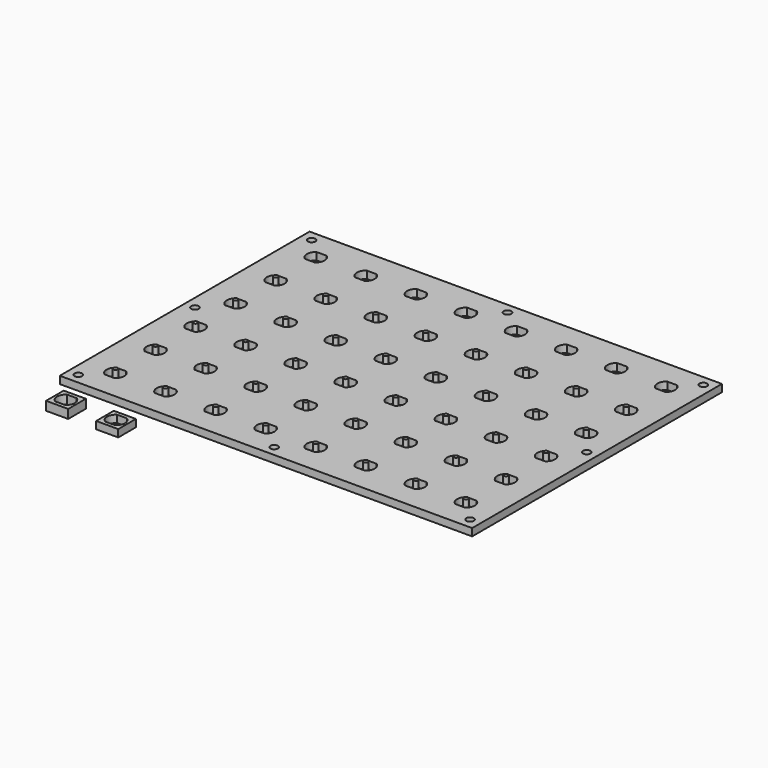
from build123d import *

# Parameters (mm, degrees)
F0_W          = 280
F0_H          = 212
F1_DEPTH      = 5
F2_W          = 13
F2_H          = 5
F2_R          = 1.5
F3_DEPTH      = 5
F4_DEPTH      = 7.5
F4_DEPTH_BACK = 3.5
F5_R          = 2.55
F6_DEPTH      = 5
F0_W_2        = 15
F0_H_2        = 15
F7_DEPTH      = 6
F8_DEPTH      = 5


with BuildPart() as f1:
    # F0 (on Top) → F1 (new body)
    with BuildSketch(Plane.XY):
        Rectangle(F0_W, F0_H)
        with BuildLine():
            ThreePointArc((-122.3166247904, -90), (-125, -85), (-122.3166247904, -80))
            Line((-122.3166247904, -80), (-115.6833752096, -80))
            ThreePointArc((-115.6833752096, -80), (-113, -85), (-115.6833752096, -90))
            Line((-115.6833752096, -90), (-122.3166247904, -90))
        make_face(mode=Mode.SUBTRACT)
        with BuildLine():
            ThreePointArc((-88.3166247904, -90), (-91, -85), (-88.3166247904, -80))
            Line((-88.3166247904, -80), (-81.6833752096, -80))
            ThreePointArc((-81.6833752096, -80), (-79, -85), (-81.6833752096, -90))
            Line((-81.6833752096, -90), (-88.3166247904, -90))
        make_face(mode=Mode.SUBTRACT)
        with BuildLine():
            ThreePointArc((-54.3166247904, -90), (-57, -85), (-54.3166247904, -80))
            Line((-54.3166247904, -80), (-47.6833752096, -80))
            ThreePointArc((-47.6833752096, -80), (-45, -85), (-47.6833752096, -90))
            Line((-47.6833752096, -90), (-54.3166247904, -90))
        make_face(mode=Mode.SUBTRACT)
        with BuildLine():
            ThreePointArc((-20.3166247904, -90), (-23, -85), (-20.3166247904, -80))
            Line((-20.3166247904, -80), (-13.6833752096, -80))
            ThreePointArc((-13.6833752096, -80), (-11, -85), (-13.6833752096, -90))
            Line((-13.6833752096, -90), (-20.3166247904, -90))
        make_face(mode=Mode.SUBTRACT)
        with BuildLine():
            ThreePointArc((-122.3166247904, -56), (-125, -51), (-122.3166247904, -46))
            Line((-122.3166247904, -46), (-115.6833752096, -46))
            ThreePointArc((-115.6833752096, -46), (-113, -51), (-115.6833752096, -56))
            Line((-115.6833752096, -56), (-122.3166247904, -56))
        make_face(mode=Mode.SUBTRACT)
        with BuildLine():
            ThreePointArc((-88.3166247904, -56), (-91, -51), (-88.3166247904, -46))
            Line((-88.3166247904, -46), (-81.6833752096, -46))
            ThreePointArc((-81.6833752096, -46), (-79, -51), (-81.6833752096, -56))
            Line((-81.6833752096, -56), (-88.3166247904, -56))
        make_face(mode=Mode.SUBTRACT)
        with BuildLine():
            ThreePointArc((-122.3166247904, -22), (-125, -17), (-122.3166247904, -12))
            Line((-122.3166247904, -12), (-115.6833752096, -12))
            ThreePointArc((-115.6833752096, -12), (-113, -17), (-115.6833752096, -22))
            Line((-115.6833752096, -22), (-122.3166247904, -22))
        make_face(mode=Mode.SUBTRACT)
        with BuildLine():
            ThreePointArc((-88.3166247904, -22), (-91, -17), (-88.3166247904, -12))
            Line((-88.3166247904, -12), (-81.6833752096, -12))
            ThreePointArc((-81.6833752096, -12), (-79, -17), (-81.6833752096, -22))
            Line((-81.6833752096, -22), (-88.3166247904, -22))
        make_face(mode=Mode.SUBTRACT)
        with BuildLine():
            ThreePointArc((-54.3166247904, -56), (-57, -51), (-54.3166247904, -46))
            Line((-54.3166247904, -46), (-47.6833752096, -46))
            ThreePointArc((-47.6833752096, -46), (-45, -51), (-47.6833752096, -56))
            Line((-47.6833752096, -56), (-54.3166247904, -56))
        make_face(mode=Mode.SUBTRACT)
        with BuildLine():
            ThreePointArc((-20.3166247904, -56), (-23, -51), (-20.3166247904, -46))
            Line((-20.3166247904, -46), (-13.6833752096, -46))
            ThreePointArc((-13.6833752096, -46), (-11, -51), (-13.6833752096, -56))
            Line((-13.6833752096, -56), (-20.3166247904, -56))
        make_face(mode=Mode.SUBTRACT)
        with BuildLine():
            ThreePointArc((-54.3166247904, -22), (-57, -17), (-54.3166247904, -12))
            Line((-54.3166247904, -12), (-47.6833752096, -12))
            ThreePointArc((-47.6833752096, -12), (-45, -17), (-47.6833752096, -22))
            Line((-47.6833752096, -22), (-54.3166247904, -22))
        make_face(mode=Mode.SUBTRACT)
        with BuildLine():
            ThreePointArc((-20.3166247904, -22), (-23, -17), (-20.3166247904, -12))
            Line((-20.3166247904, -12), (-13.6833752096, -12))
            ThreePointArc((-13.6833752096, -12), (-11, -17), (-13.6833752096, -22))
            Line((-13.6833752096, -22), (-20.3166247904, -22))
        make_face(mode=Mode.SUBTRACT)
        with BuildLine():
            ThreePointArc((13.6833752096, -90), (11, -85), (13.6833752096, -80))
            Line((13.6833752096, -80), (20.3166247904, -80))
            ThreePointArc((20.3166247904, -80), (23, -85), (20.3166247904, -90))
            Line((20.3166247904, -90), (13.6833752096, -90))
        make_face(mode=Mode.SUBTRACT)
        with BuildLine():
            ThreePointArc((47.6833752096, -90), (45, -85), (47.6833752096, -80))
            Line((47.6833752096, -80), (54.3166247904, -80))
            ThreePointArc((54.3166247904, -80), (57, -85), (54.3166247904, -90))
            Line((54.3166247904, -90), (47.6833752096, -90))
        make_face(mode=Mode.SUBTRACT)
        with BuildLine():
            ThreePointArc((81.6833752096, -90), (79, -85), (81.6833752096, -80))
            Line((81.6833752096, -80), (88.3166247904, -80))
            ThreePointArc((88.3166247904, -80), (91, -85), (88.3166247904, -90))
            Line((88.3166247904, -90), (81.6833752096, -90))
        make_face(mode=Mode.SUBTRACT)
        with BuildLine():
            ThreePointArc((115.6833752096, -90), (113, -85), (115.6833752096, -80))
            Line((115.6833752096, -80), (122.3166247904, -80))
            ThreePointArc((122.3166247904, -80), (125, -85), (122.3166247904, -90))
            Line((122.3166247904, -90), (115.6833752096, -90))
        make_face(mode=Mode.SUBTRACT)
        with BuildLine():
            ThreePointArc((13.6833752096, -56), (11, -51), (13.6833752096, -46))
            Line((13.6833752096, -46), (20.3166247904, -46))
            ThreePointArc((20.3166247904, -46), (23, -51), (20.3166247904, -56))
            Line((20.3166247904, -56), (13.6833752096, -56))
        make_face(mode=Mode.SUBTRACT)
        with BuildLine():
            ThreePointArc((47.6833752096, -56), (45, -51), (47.6833752096, -46))
            Line((47.6833752096, -46), (54.3166247904, -46))
            ThreePointArc((54.3166247904, -46), (57, -51), (54.3166247904, -56))
            Line((54.3166247904, -56), (47.6833752096, -56))
        make_face(mode=Mode.SUBTRACT)
        with BuildLine():
            ThreePointArc((13.6833752096, -22), (11, -17), (13.6833752096, -12))
            Line((13.6833752096, -12), (20.3166247904, -12))
            ThreePointArc((20.3166247904, -12), (23, -17), (20.3166247904, -22))
            Line((20.3166247904, -22), (13.6833752096, -22))
        make_face(mode=Mode.SUBTRACT)
        with BuildLine():
            ThreePointArc((47.6833752096, -22), (45, -17), (47.6833752096, -12))
            Line((47.6833752096, -12), (54.3166247904, -12))
            ThreePointArc((54.3166247904, -12), (57, -17), (54.3166247904, -22))
            Line((54.3166247904, -22), (47.6833752096, -22))
        make_face(mode=Mode.SUBTRACT)
        with BuildLine():
            ThreePointArc((81.6833752096, -56), (79, -51), (81.6833752096, -46))
            Line((81.6833752096, -46), (88.3166247904, -46))
            ThreePointArc((88.3166247904, -46), (91, -51), (88.3166247904, -56))
            Line((88.3166247904, -56), (81.6833752096, -56))
        make_face(mode=Mode.SUBTRACT)
        with BuildLine():
            ThreePointArc((115.6833752096, -56), (113, -51), (115.6833752096, -46))
            Line((115.6833752096, -46), (122.3166247904, -46))
            ThreePointArc((122.3166247904, -46), (125, -51), (122.3166247904, -56))
            Line((122.3166247904, -56), (115.6833752096, -56))
        make_face(mode=Mode.SUBTRACT)
        with BuildLine():
            ThreePointArc((81.6833752096, -22), (79, -17), (81.6833752096, -12))
            Line((81.6833752096, -12), (88.3166247904, -12))
            ThreePointArc((88.3166247904, -12), (91, -17), (88.3166247904, -22))
            Line((88.3166247904, -22), (81.6833752096, -22))
        make_face(mode=Mode.SUBTRACT)
        with BuildLine():
            ThreePointArc((115.6833752096, -22), (113, -17), (115.6833752096, -12))
            Line((115.6833752096, -12), (122.3166247904, -12))
            ThreePointArc((122.3166247904, -12), (125, -17), (122.3166247904, -22))
            Line((122.3166247904, -22), (115.6833752096, -22))
        make_face(mode=Mode.SUBTRACT)
        with BuildLine():
            ThreePointArc((-122.3166247904, 12), (-125, 17), (-122.3166247904, 22))
            Line((-122.3166247904, 22), (-115.6833752096, 22))
            ThreePointArc((-115.6833752096, 22), (-113, 17), (-115.6833752096, 12))
            Line((-115.6833752096, 12), (-122.3166247904, 12))
        make_face(mode=Mode.SUBTRACT)
        with BuildLine():
            ThreePointArc((-88.3166247904, 12), (-91, 17), (-88.3166247904, 22))
            Line((-88.3166247904, 22), (-81.6833752096, 22))
            ThreePointArc((-81.6833752096, 22), (-79, 17), (-81.6833752096, 12))
            Line((-81.6833752096, 12), (-88.3166247904, 12))
        make_face(mode=Mode.SUBTRACT)
        with BuildLine():
            ThreePointArc((-54.3166247904, 12), (-57, 17), (-54.3166247904, 22))
            Line((-54.3166247904, 22), (-47.6833752096, 22))
            ThreePointArc((-47.6833752096, 22), (-45, 17), (-47.6833752096, 12))
            Line((-47.6833752096, 12), (-54.3166247904, 12))
        make_face(mode=Mode.SUBTRACT)
        with BuildLine():
            ThreePointArc((-20.3166247904, 12), (-23, 17), (-20.3166247904, 22))
            Line((-20.3166247904, 22), (-13.6833752096, 22))
            ThreePointArc((-13.6833752096, 22), (-11, 17), (-13.6833752096, 12))
            Line((-13.6833752096, 12), (-20.3166247904, 12))
        make_face(mode=Mode.SUBTRACT)
        with BuildLine():
            ThreePointArc((-122.3166247904, 46), (-125, 51), (-122.3166247904, 56))
            Line((-122.3166247904, 56), (-115.6833752096, 56))
            ThreePointArc((-115.6833752096, 56), (-113, 51), (-115.6833752096, 46))
            Line((-115.6833752096, 46), (-122.3166247904, 46))
        make_face(mode=Mode.SUBTRACT)
        with BuildLine():
            ThreePointArc((-88.3166247904, 46), (-91, 51), (-88.3166247904, 56))
            Line((-88.3166247904, 56), (-81.6833752096, 56))
            ThreePointArc((-81.6833752096, 56), (-79, 51), (-81.6833752096, 46))
            Line((-81.6833752096, 46), (-88.3166247904, 46))
        make_face(mode=Mode.SUBTRACT)
        with BuildLine():
            ThreePointArc((-122.3166247904, 80), (-125, 85), (-122.3166247904, 90))
            Line((-122.3166247904, 90), (-115.6833752096, 90))
            ThreePointArc((-115.6833752096, 90), (-113, 85), (-115.6833752096, 80))
            Line((-115.6833752096, 80), (-122.3166247904, 80))
        make_face(mode=Mode.SUBTRACT)
        with BuildLine():
            ThreePointArc((-88.3166247904, 80), (-91, 85), (-88.3166247904, 90))
            Line((-88.3166247904, 90), (-81.6833752096, 90))
            ThreePointArc((-81.6833752096, 90), (-79, 85), (-81.6833752096, 80))
            Line((-81.6833752096, 80), (-88.3166247904, 80))
        make_face(mode=Mode.SUBTRACT)
        with BuildLine():
            ThreePointArc((-54.3166247904, 46), (-57, 51), (-54.3166247904, 56))
            Line((-54.3166247904, 56), (-47.6833752096, 56))
            ThreePointArc((-47.6833752096, 56), (-45, 51), (-47.6833752096, 46))
            Line((-47.6833752096, 46), (-54.3166247904, 46))
        make_face(mode=Mode.SUBTRACT)
        with BuildLine():
            ThreePointArc((-20.3166247904, 46), (-23, 51), (-20.3166247904, 56))
            Line((-20.3166247904, 56), (-13.6833752096, 56))
            ThreePointArc((-13.6833752096, 56), (-11, 51), (-13.6833752096, 46))
            Line((-13.6833752096, 46), (-20.3166247904, 46))
        make_face(mode=Mode.SUBTRACT)
        with BuildLine():
            ThreePointArc((-54.3166247904, 80), (-57, 85), (-54.3166247904, 90))
            Line((-54.3166247904, 90), (-47.6833752096, 90))
            ThreePointArc((-47.6833752096, 90), (-45, 85), (-47.6833752096, 80))
            Line((-47.6833752096, 80), (-54.3166247904, 80))
        make_face(mode=Mode.SUBTRACT)
        with BuildLine():
            ThreePointArc((-20.3166247904, 80), (-23, 85), (-20.3166247904, 90))
            Line((-20.3166247904, 90), (-13.6833752096, 90))
            ThreePointArc((-13.6833752096, 90), (-11, 85), (-13.6833752096, 80))
            Line((-13.6833752096, 80), (-20.3166247904, 80))
        make_face(mode=Mode.SUBTRACT)
        with BuildLine():
            ThreePointArc((13.6833752096, 12), (11, 17), (13.6833752096, 22))
            Line((13.6833752096, 22), (20.3166247904, 22))
            ThreePointArc((20.3166247904, 22), (23, 17), (20.3166247904, 12))
            Line((20.3166247904, 12), (13.6833752096, 12))
        make_face(mode=Mode.SUBTRACT)
        with BuildLine():
            ThreePointArc((47.6833752096, 12), (45, 17), (47.6833752096, 22))
            Line((47.6833752096, 22), (54.3166247904, 22))
            ThreePointArc((54.3166247904, 22), (57, 17), (54.3166247904, 12))
            Line((54.3166247904, 12), (47.6833752096, 12))
        make_face(mode=Mode.SUBTRACT)
        with BuildLine():
            ThreePointArc((81.6833752096, 12), (79, 17), (81.6833752096, 22))
            Line((81.6833752096, 22), (88.3166247904, 22))
            ThreePointArc((88.3166247904, 22), (91, 17), (88.3166247904, 12))
            Line((88.3166247904, 12), (81.6833752096, 12))
        make_face(mode=Mode.SUBTRACT)
        with BuildLine():
            ThreePointArc((115.6833752096, 12), (113, 17), (115.6833752096, 22))
            Line((115.6833752096, 22), (122.3166247904, 22))
            ThreePointArc((122.3166247904, 22), (125, 17), (122.3166247904, 12))
            Line((122.3166247904, 12), (115.6833752096, 12))
        make_face(mode=Mode.SUBTRACT)
        with BuildLine():
            ThreePointArc((13.6833752096, 46), (11, 51), (13.6833752096, 56))
            Line((13.6833752096, 56), (20.3166247904, 56))
            ThreePointArc((20.3166247904, 56), (23, 51), (20.3166247904, 46))
            Line((20.3166247904, 46), (13.6833752096, 46))
        make_face(mode=Mode.SUBTRACT)
        with BuildLine():
            ThreePointArc((47.6833752096, 46), (45, 51), (47.6833752096, 56))
            Line((47.6833752096, 56), (54.3166247904, 56))
            ThreePointArc((54.3166247904, 56), (57, 51), (54.3166247904, 46))
            Line((54.3166247904, 46), (47.6833752096, 46))
        make_face(mode=Mode.SUBTRACT)
        with BuildLine():
            ThreePointArc((13.6833752096, 80), (11, 85), (13.6833752096, 90))
            Line((13.6833752096, 90), (20.3166247904, 90))
            ThreePointArc((20.3166247904, 90), (23, 85), (20.3166247904, 80))
            Line((20.3166247904, 80), (13.6833752096, 80))
        make_face(mode=Mode.SUBTRACT)
        with BuildLine():
            ThreePointArc((47.6833752096, 80), (45, 85), (47.6833752096, 90))
            Line((47.6833752096, 90), (54.3166247904, 90))
            ThreePointArc((54.3166247904, 90), (57, 85), (54.3166247904, 80))
            Line((54.3166247904, 80), (47.6833752096, 80))
        make_face(mode=Mode.SUBTRACT)
        with BuildLine():
            ThreePointArc((81.6833752096, 46), (79, 51), (81.6833752096, 56))
            Line((81.6833752096, 56), (88.3166247904, 56))
            ThreePointArc((88.3166247904, 56), (91, 51), (88.3166247904, 46))
            Line((88.3166247904, 46), (81.6833752096, 46))
        make_face(mode=Mode.SUBTRACT)
        with BuildLine():
            ThreePointArc((115.6833752096, 46), (113, 51), (115.6833752096, 56))
            Line((115.6833752096, 56), (122.3166247904, 56))
            ThreePointArc((122.3166247904, 56), (125, 51), (122.3166247904, 46))
            Line((122.3166247904, 46), (115.6833752096, 46))
        make_face(mode=Mode.SUBTRACT)
        with BuildLine():
            ThreePointArc((81.6833752096, 80), (79, 85), (81.6833752096, 90))
            Line((81.6833752096, 90), (88.3166247904, 90))
            ThreePointArc((88.3166247904, 90), (91, 85), (88.3166247904, 80))
            Line((88.3166247904, 80), (81.6833752096, 80))
        make_face(mode=Mode.SUBTRACT)
        with BuildLine():
            ThreePointArc((115.6833752096, 80), (113, 85), (115.6833752096, 90))
            Line((115.6833752096, 90), (122.3166247904, 90))
            ThreePointArc((122.3166247904, 90), (125, 85), (122.3166247904, 80))
            Line((122.3166247904, 80), (115.6833752096, 80))
        make_face(mode=Mode.SUBTRACT)
    extrude(amount=F1_DEPTH)

    # F2 (on face) → F3 (join)
    with BuildSketch(Plane(origin=(0, 0, 0), x_dir=(1, 0, 0), z_dir=(0, 0, -1))):
        with Locations((-119, 85)):
            Rectangle(F2_W, F2_H)
        with Locations((-119, 85)):
            Circle(F2_R, mode=Mode.SUBTRACT)
        with Locations((-119, 51)):
            Rectangle(F2_W, F2_H)
        with Locations((-119, 51)):
            Circle(F2_R, mode=Mode.SUBTRACT)
        with Locations((-119, 17)):
            Rectangle(F2_W, F2_H)
        with Locations((-119, 17)):
            Circle(F2_R, mode=Mode.SUBTRACT)
        with Locations((-119, -17)):
            Rectangle(F2_W, F2_H)
        with Locations((-119, -17)):
            Circle(F2_R, mode=Mode.SUBTRACT)
        with Locations((-119, -51)):
            Rectangle(F2_W, F2_H)
        with Locations((-119, -51)):
            Circle(F2_R, mode=Mode.SUBTRACT)
        with Locations((-85, 85)):
            Rectangle(F2_W, F2_H)
        with Locations((-85, 85)):
            Circle(F2_R, mode=Mode.SUBTRACT)
        with Locations((-85, 51)):
            Rectangle(F2_W, F2_H)
        with Locations((-85, 51)):
            Circle(F2_R, mode=Mode.SUBTRACT)
        with Locations((-85, 17)):
            Rectangle(F2_W, F2_H)
        with Locations((-85, 17)):
            Circle(F2_R, mode=Mode.SUBTRACT)
        with Locations((-85, -17)):
            Rectangle(F2_W, F2_H)
        with Locations((-85, -17)):
            Circle(F2_R, mode=Mode.SUBTRACT)
        with Locations((-85, -51)):
            Rectangle(F2_W, F2_H)
        with Locations((-85, -51)):
            Circle(F2_R, mode=Mode.SUBTRACT)
        with Locations((-51, 85)):
            Rectangle(F2_W, F2_H)
        with Locations((-51, 85)):
            Circle(F2_R, mode=Mode.SUBTRACT)
        with Locations((-51, 51)):
            Rectangle(F2_W, F2_H)
        with Locations((-51, 51)):
            Circle(F2_R, mode=Mode.SUBTRACT)
        with Locations((-51, 17)):
            Rectangle(F2_W, F2_H)
        with Locations((-51, 17)):
            Circle(F2_R, mode=Mode.SUBTRACT)
        with Locations((-51, -17)):
            Rectangle(F2_W, F2_H)
        with Locations((-51, -17)):
            Circle(F2_R, mode=Mode.SUBTRACT)
        with Locations((-51, -51)):
            Rectangle(F2_W, F2_H)
        with Locations((-51, -51)):
            Circle(F2_R, mode=Mode.SUBTRACT)
        with Locations((-17, 85)):
            Rectangle(F2_W, F2_H)
        with Locations((-17, 85)):
            Circle(F2_R, mode=Mode.SUBTRACT)
        with Locations((-17, 51)):
            Rectangle(F2_W, F2_H)
        with Locations((-17, 51)):
            Circle(F2_R, mode=Mode.SUBTRACT)
        with Locations((-17, 17)):
            Rectangle(F2_W, F2_H)
        with Locations((-17, 17)):
            Circle(F2_R, mode=Mode.SUBTRACT)
        with Locations((-17, -17)):
            Rectangle(F2_W, F2_H)
        with Locations((-17, -17)):
            Circle(F2_R, mode=Mode.SUBTRACT)
        with Locations((-17, -51)):
            Rectangle(F2_W, F2_H)
        with Locations((-17, -51)):
            Circle(F2_R, mode=Mode.SUBTRACT)
        with Locations((17, 85)):
            Rectangle(F2_W, F2_H)
        with Locations((17, 85)):
            Circle(F2_R, mode=Mode.SUBTRACT)
        with Locations((17, 51)):
            Rectangle(F2_W, F2_H)
        with Locations((17, 51)):
            Circle(F2_R, mode=Mode.SUBTRACT)
        with Locations((17, 17)):
            Rectangle(F2_W, F2_H)
        with Locations((17, 17)):
            Circle(F2_R, mode=Mode.SUBTRACT)
        with Locations((17, -17)):
            Rectangle(F2_W, F2_H)
        with Locations((17, -17)):
            Circle(F2_R, mode=Mode.SUBTRACT)
        with Locations((17, -51)):
            Rectangle(F2_W, F2_H)
        with Locations((17, -51)):
            Circle(F2_R, mode=Mode.SUBTRACT)
        with Locations((51, 85)):
            Rectangle(F2_W, F2_H)
        with Locations((51, 85)):
            Circle(F2_R, mode=Mode.SUBTRACT)
        with Locations((51, 51)):
            Rectangle(F2_W, F2_H)
        with Locations((51, 51)):
            Circle(F2_R, mode=Mode.SUBTRACT)
        with Locations((51, 17)):
            Rectangle(F2_W, F2_H)
        with Locations((51, 17)):
            Circle(F2_R, mode=Mode.SUBTRACT)
        with Locations((51, -17)):
            Rectangle(F2_W, F2_H)
        with Locations((51, -17)):
            Circle(F2_R, mode=Mode.SUBTRACT)
        with Locations((51, -51)):
            Rectangle(F2_W, F2_H)
        with Locations((51, -51)):
            Circle(F2_R, mode=Mode.SUBTRACT)
        with Locations((85, 85)):
            Rectangle(F2_W, F2_H)
        with Locations((85, 85)):
            Circle(F2_R, mode=Mode.SUBTRACT)
        with Locations((85, 51)):
            Rectangle(F2_W, F2_H)
        with Locations((85, 51)):
            Circle(F2_R, mode=Mode.SUBTRACT)
        with Locations((85, 17)):
            Rectangle(F2_W, F2_H)
        with Locations((85, 17)):
            Circle(F2_R, mode=Mode.SUBTRACT)
        with Locations((85, -17)):
            Rectangle(F2_W, F2_H)
        with Locations((85, -17)):
            Circle(F2_R, mode=Mode.SUBTRACT)
        with Locations((85, -51)):
            Rectangle(F2_W, F2_H)
        with Locations((85, -51)):
            Circle(F2_R, mode=Mode.SUBTRACT)
        with Locations((119, 85)):
            Rectangle(F2_W, F2_H)
        with Locations((119, 85)):
            Circle(F2_R, mode=Mode.SUBTRACT)
        with Locations((119, 51)):
            Rectangle(F2_W, F2_H)
        with Locations((119, 51)):
            Circle(F2_R, mode=Mode.SUBTRACT)
        with Locations((119, 17)):
            Rectangle(F2_W, F2_H)
        with Locations((119, 17)):
            Circle(F2_R, mode=Mode.SUBTRACT)
        with Locations((119, -17)):
            Rectangle(F2_W, F2_H)
        with Locations((119, -17)):
            Circle(F2_R, mode=Mode.SUBTRACT)
        with Locations((119, -51)):
            Rectangle(F2_W, F2_H)
        with Locations((119, -51)):
            Circle(F2_R, mode=Mode.SUBTRACT)
        with Locations((-119, -85)):
            Rectangle(F2_W, F2_H)
        with Locations((-119, -85)):
            Circle(F2_R, mode=Mode.SUBTRACT)
        with Locations((-85, -85)):
            Rectangle(F2_W, F2_H)
        with Locations((-85, -85)):
            Circle(F2_R, mode=Mode.SUBTRACT)
        with Locations((-51, -85)):
            Rectangle(F2_W, F2_H)
        with Locations((-51, -85)):
            Circle(F2_R, mode=Mode.SUBTRACT)
        with Locations((-17, -85)):
            Rectangle(F2_W, F2_H)
        with Locations((-17, -85)):
            Circle(F2_R, mode=Mode.SUBTRACT)
        with Locations((17, -85)):
            Rectangle(F2_W, F2_H)
        with Locations((17, -85)):
            Circle(F2_R, mode=Mode.SUBTRACT)
        with Locations((51, -85)):
            Rectangle(F2_W, F2_H)
        with Locations((51, -85)):
            Circle(F2_R, mode=Mode.SUBTRACT)
        with Locations((85, -85)):
            Rectangle(F2_W, F2_H)
        with Locations((85, -85)):
            Circle(F2_R, mode=Mode.SUBTRACT)
        with Locations((119, -85)):
            Rectangle(F2_W, F2_H)
        with Locations((119, -85)):
            Circle(F2_R, mode=Mode.SUBTRACT)
    extrude(amount=F3_DEPTH)

    # F2 (on face) → F4 (join, two sides)
    with BuildSketch(Plane(origin=(0, 0, 0), x_dir=(1, 0, 0), z_dir=(0, 0, -1))) as f4_sk:
        with Locations((-119, 85)):
            Circle(F2_R)
        with Locations((-85, 85)):
            Circle(F2_R)
        with Locations((-51, 85)):
            Circle(F2_R)
        with Locations((-17, 85)):
            Circle(F2_R)
        with Locations((17, 85)):
            Circle(F2_R)
        with Locations((17, 51)):
            Circle(F2_R)
        with Locations((-17, 51)):
            Circle(F2_R)
        with Locations((-51, 51)):
            Circle(F2_R)
        with Locations((-85, 51)):
            Circle(F2_R)
        with Locations((-119, 51)):
            Circle(F2_R)
        with Locations((-119, 17)):
            Circle(F2_R)
        with Locations((-85, 17)):
            Circle(F2_R)
        with Locations((-51, 17)):
            Circle(F2_R)
        with Locations((-17, 17)):
            Circle(F2_R)
        with Locations((17, 17)):
            Circle(F2_R)
        with Locations((51, 17)):
            Circle(F2_R)
        with Locations((51, 51)):
            Circle(F2_R)
        with Locations((51, 85)):
            Circle(F2_R)
        with Locations((119, 85)):
            Circle(F2_R)
        with Locations((85, 85)):
            Circle(F2_R)
        with Locations((85, 51)):
            Circle(F2_R)
        with Locations((119, 51)):
            Circle(F2_R)
        with Locations((119, 17)):
            Circle(F2_R)
        with Locations((85, 17)):
            Circle(F2_R)
        with Locations((85, -17)):
            Circle(F2_R)
        with Locations((119, -17)):
            Circle(F2_R)
        with Locations((119, -51)):
            Circle(F2_R)
        with Locations((85, -51)):
            Circle(F2_R)
        with Locations((51, -51)):
            Circle(F2_R)
        with Locations((51, -17)):
            Circle(F2_R)
        with Locations((17, -17)):
            Circle(F2_R)
        with Locations((17, -51)):
            Circle(F2_R)
        with Locations((-17, -51)):
            Circle(F2_R)
        with Locations((-17, -17)):
            Circle(F2_R)
        with Locations((-51, -17)):
            Circle(F2_R)
        with Locations((-51, -51)):
            Circle(F2_R)
        with Locations((-85, -51)):
            Circle(F2_R)
        with Locations((-85, -17)):
            Circle(F2_R)
        with Locations((-119, -17)):
            Circle(F2_R)
        with Locations((-119, -51)):
            Circle(F2_R)
    extrude(amount=-F4_DEPTH)
    extrude(f4_sk.sketch, amount=F4_DEPTH_BACK)

    # F5 (on face) → F6 (cut)
    with BuildSketch(Plane.XY.offset(5)):
        with Locations((-133, 99)):
            Circle(F5_R)
        with Locations((133, 99)):
            Circle(F5_R)
        with Locations((133, -99)):
            Circle(F5_R)
        with Locations((-133, -99)):
            Circle(F5_R)
        with Locations((0, -99)):
            Circle(F5_R)
        with Locations((0, 99)):
            Circle(F5_R)
        with Locations((-133, 0)):
            Circle(F5_R)
        with Locations((133, 0)):
            Circle(F5_R)
    extrude(amount=-F6_DEPTH, mode=Mode.SUBTRACT)


with BuildPart() as f7:
    # F0 (on Top) → F7 (new body)
    with BuildSketch(Plane.XY):
        with Locations((-119, -127)):
            Rectangle(F0_W_2, F0_H_2)
        with BuildLine():
            Line((-115.6833752096, -132), (-122.3166247904, -132))
            ThreePointArc((-122.3166247904, -132), (-125, -127), (-122.3166247904, -122))
            Line((-122.3166247904, -122), (-115.6833752096, -122))
            ThreePointArc((-115.6833752096, -122), (-113, -127), (-115.6833752096, -132))
        make_face(mode=Mode.SUBTRACT)
    extrude(amount=F7_DEPTH)


with BuildPart() as f8:
    # F0 (on Top) → F8 (new body)
    with BuildSketch(Plane.XY):
        with Locations((-85, -127)):
            Rectangle(F0_W_2, F0_H_2)
        with BuildLine():
            ThreePointArc((-81.6683337502, -121.95), (-79.6727548953, -124.1324296705), (-78.95, -127))
            ThreePointArc((-78.95, -127), (-79.6727548953, -129.8675703295), (-81.6683337502, -132.05))
            ThreePointArc((-81.6683337502, -132.05), (-85, -133.05), (-88.3316662498, -132.05))
            ThreePointArc((-88.3316662498, -132.05), (-91.05, -127), (-88.3316662498, -121.95))
            ThreePointArc((-88.3316662498, -121.95), (-85, -120.95), (-81.6683337502, -121.95))
        make_face(mode=Mode.SUBTRACT)
        with BuildLine():
            Line((-88.3316662498, -121.95), (-81.6683337502, -121.95))
            ThreePointArc((-81.6683337502, -121.95), (-85, -120.95), (-88.3316662498, -121.95))
        make_face()
        with BuildLine():
            ThreePointArc((-88.3316662498, -132.05), (-85, -133.05), (-81.6683337502, -132.05))
            Line((-81.6683337502, -132.05), (-88.3316662498, -132.05))
        make_face()
    extrude(amount=F8_DEPTH)


solid = Compound([f1.part, f7.part, f8.part])
